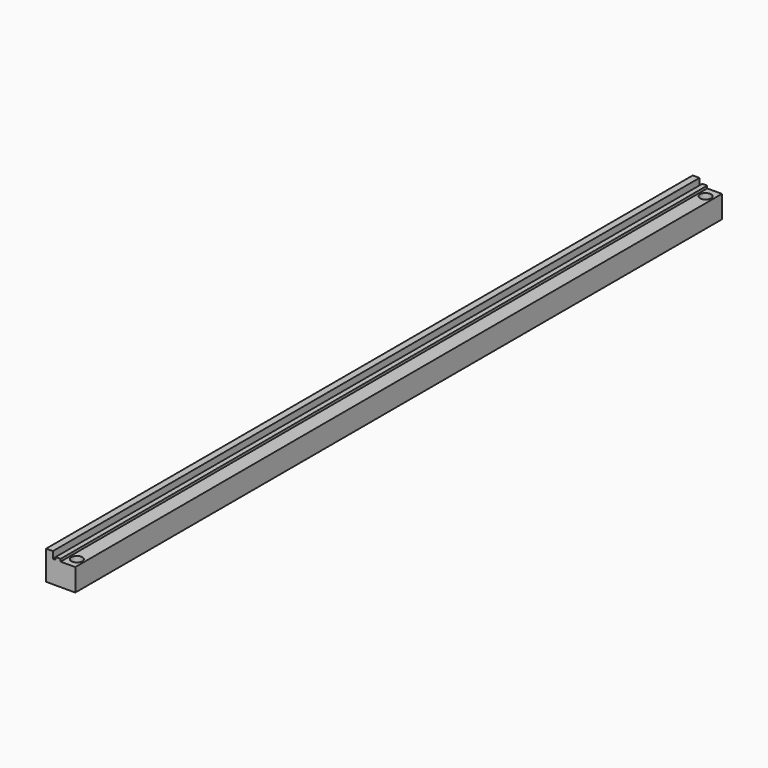
from build123d import *

# Parameters (mm, degrees)
F0_W     = 3.81
F0_H     = 3.81
F1_DEPTH = 457.2
F3_D     = 6.2484


with BuildPart() as f1:
    # F0 (on Front) → F1 (new body)
    with BuildSketch(Plane.XZ):
        Polygon((0, 12.7), (0, 0), (16.51, 0), (16.51, 12.7), (8.2120399096, 12.7), (8.2120399096, 14.1009199548), (5.4102, 14.1009199548), (5.4102, 12.7), (3.81, 12.7), align=None)
        with Locations((1.905, 14.605)):
            Rectangle(F0_W, F0_H)
    extrude(amount=F1_DEPTH)

    # F3 (through all)
    with Locations(Plane.XY.offset(12.7)):
        with Locations((12.3610199548, -6.35), (12.3610199548, -450.85)):
            Hole(F3_D / 2)


solid = f1.part
